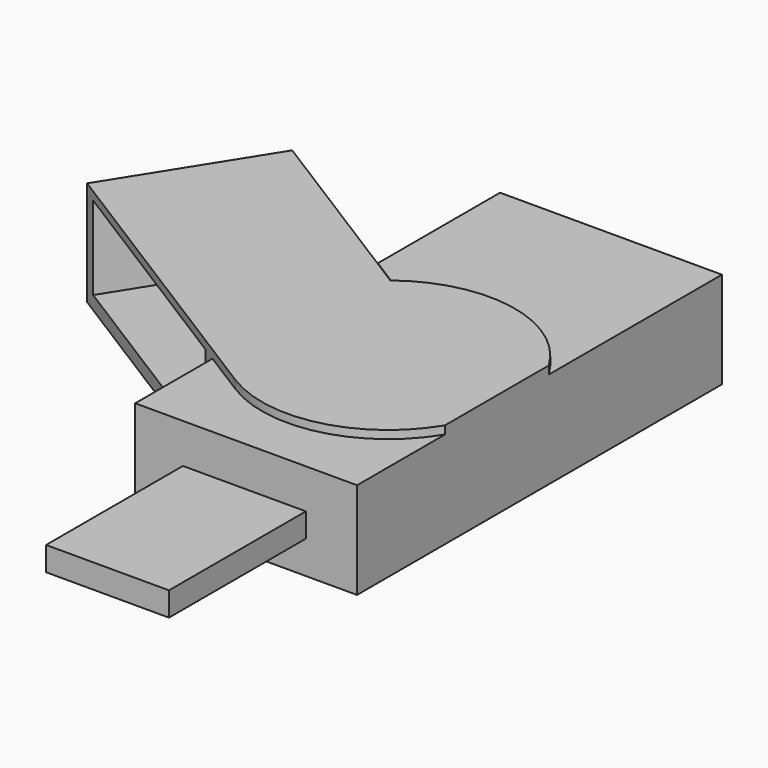
from build123d import *

# Parameters (mm, degrees)
F0_W     = 28.0035007745
F0_H     = 57.5627535582
F1_DEPTH = 12.192
F2_W     = 15.5119162519
F2_H     = 3.0358484946
F3_DEPTH = 21.59
F5_DEPTH = 1.016
F7_DEPTH = 13.208
F8_W     = 33.6042
F8_H     = 10.5041724799
F9_DEPTH = 22.098


with BuildPart() as f1:
    # F0 (on Top) → F1 (new body)
    with BuildSketch(Plane.XY):
        with Locations((-3.8893753663, 12.4460011721)):
            Rectangle(F0_W, F0_H)
    extrude(amount=F1_DEPTH)

    # F2 (on face) → F3 (join)
    with BuildSketch(Plane.XZ.offset(16.335375607)):
        with Locations((-4.1097527137, 5.6689756457)):
            Rectangle(F2_W, F2_H)
    extrude(amount=F3_DEPTH)

    # F4 (on face) → F5 (join)
    with BuildSketch(Plane.XY.offset(12.192)):
        with BuildLine():
            Line((10.112375021, -2.4543297905), (10.112375021, 13.9135444033))
            ThreePointArc((10.112375021, 13.9135444033), (-4.210298008, 21.68161298), (-17.8911257535, 12.8319347765))
            Line((-17.8911257535, 12.8319347765), (-17.8911257535, -1.3727201637))
            ThreePointArc((-17.8911257535, -1.3727201637), (-4.210298008, -10.2223983672), (10.112375021, -2.4543297905))
        make_face()
    extrude(amount=F5_DEPTH)

    # F6 (on face) → F7 (join)
    with BuildSketch(Plane.XY.offset(13.208)):
        with BuildLine():
            ThreePointArc((-17.8911257535, 12.8319347765), (-15.9572228314, 15.8291586852), (-13.4060875251, 18.3221569444))
            Line((-13.4060875251, 18.3221569444), (-38.3101751119, 33.9651258488))
            Line((-38.3101751119, 33.9651258488), (-49.6973358095, 15.8364158124))
            Line((-49.6973358095, 15.8364158124), (-12.0854080322, -7.7887105691))
            ThreePointArc((-12.0854080322, -7.7887105691), (-15.431258916, -4.9815711153), (-17.8911257535, -1.3727201637))
            Line((-17.8911257535, -1.3727201637), (-17.8911257535, 12.8319347765))
        make_face()
    extrude(amount=-F7_DEPTH)

    # F8 (on face) → F9 (cut)
    with BuildSketch(Plane(origin=(-6.9273860037, -11.028611566, 0), x_dir=(0.8468054721, -0.5319027096, 0), z_dir=(-0.5319027096, -0.8468054721, 0))):
        with Locations((-31.8871685294, 6.93991376)):
            Rectangle(F8_W, F8_H)
    extrude(amount=-F9_DEPTH, mode=Mode.SUBTRACT)


solid = f1.part
